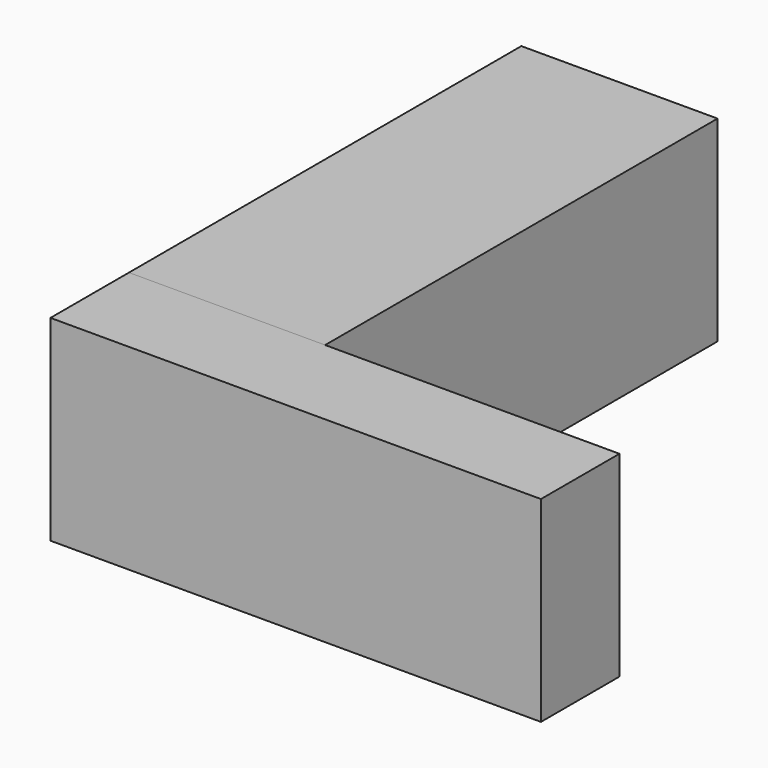
from build123d import *

# Parameters (mm, degrees)
F0_W     = 50.8
F0_H     = 127
F1_DEPTH = 50.8
F2_R     = 12.7
F3_DEPTH = 25.4
F4_W     = 127
F4_H     = 50.8
F5_DEPTH = 25.4


with BuildPart() as f1:
    # F0 (on Top) → F1 (new body)
    with BuildSketch(Plane.XY):
        Rectangle(F0_W, F0_H)
    extrude(amount=F1_DEPTH)

    # F2 (on face) → F3 (join)
    with BuildSketch(Plane.XZ.offset(63.5)):
        with Locations((0, 25.4)):
            Circle(F2_R)
    extrude(amount=F3_DEPTH)


with BuildPart() as f5:
    # F4 (on face) → F5 (new body)
    with BuildSketch(Plane.XZ.offset(63.5)):
        with Locations((38.1, 25.4)):
            Rectangle(F4_W, F4_H)
    extrude(amount=F5_DEPTH)


solid = Compound([f1.part, f5.part])
